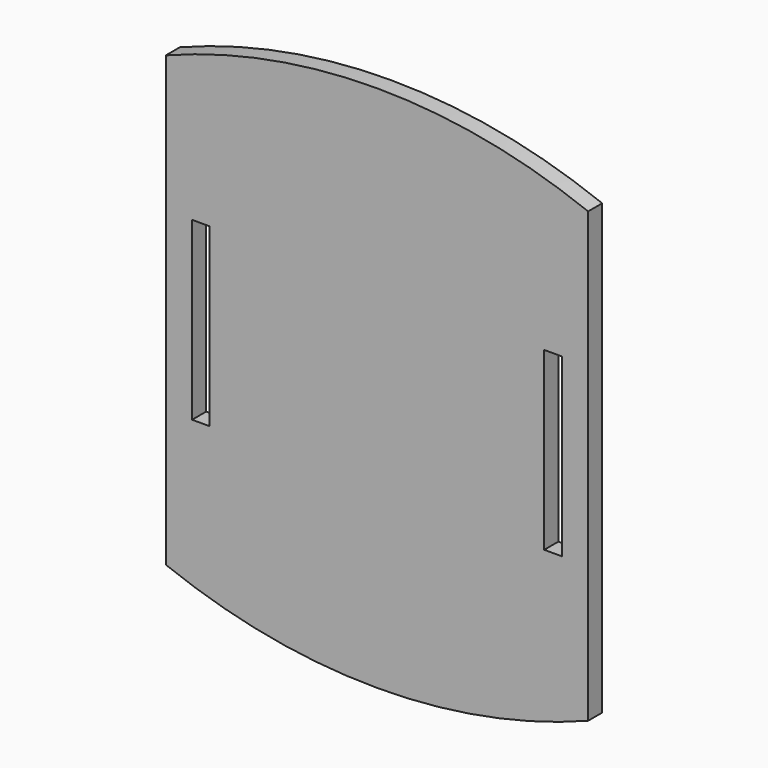
from build123d import *

# Parameters (mm, degrees)
F0_W     = 25.4
F0_H     = 254
F1_DEPTH = 25.4


with BuildPart() as f1:
    # F0 (on Front) → F1 (new body)
    with BuildSketch(Plane.XZ):
        with BuildLine():
            Line((-412.866375, 451.566407), (-412.866375, -195.659286))
            ThreePointArc((-412.866375, -195.659286), (-108.066375, -253.04644), (196.733625, -195.659286))
            Line((196.733625, -195.659286), (196.733625, 451.566407))
            ThreePointArc((196.733625, 451.566407), (-108.066375, 508.95356), (-412.866375, 451.566407))
        make_face()
        with Locations((-362.167946, 127.95356)):
            Rectangle(F0_W, F0_H, mode=Mode.SUBTRACT)
        with Locations((146.035196, 127.95356)):
            Rectangle(F0_W, F0_H, mode=Mode.SUBTRACT)
    extrude(amount=F1_DEPTH)


solid = f1.part
